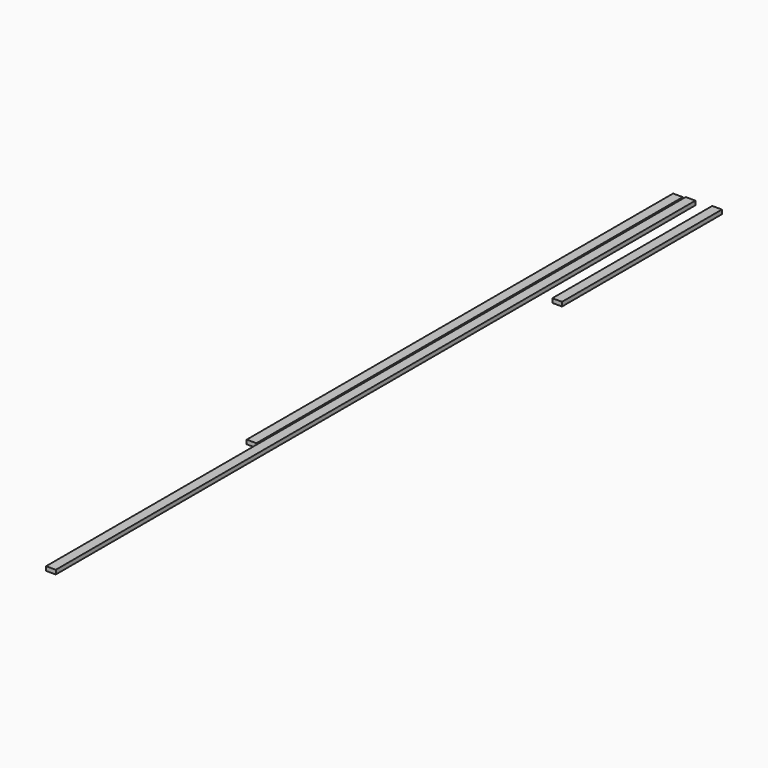
from build123d import *

# Parameters (mm, degrees)
F0_W     = 88.9
F0_H     = 38.1
F1_DEPTH = 4876.8
F2_W     = 88.9
F2_H     = 38.1
F3_DEPTH = 7315.2
F4_R     = 1.5875
F5_DEPTH = 25.4
F6_W     = 88.9
F6_H     = 38.1
F7_DEPTH = 1828.8


with BuildPart() as f1:
    # F0 (on Front) → F1 (new body)
    with BuildSketch(Plane.XZ):
        with Locations((-35.3235648945, 2.8370052017)):
            Rectangle(F0_W, F0_H)
    extrude(amount=F1_DEPTH)

    # F4 (on face) → F5 (cut)
    with BuildSketch(Plane.XY.offset(21.8870052017)):
        with Locations((-16.2735648945, -4851.4)):
            Circle(F4_R)
        with Locations((-54.3735648945, -4851.4)):
            Circle(F4_R)
        with Locations((-54.3735648945, -25.4)):
            Circle(F4_R)
        with Locations((-16.2735648945, -25.4)):
            Circle(F4_R)
    extrude(amount=F5_DEPTH, mode=Mode.SUBTRACT)


with BuildPart() as f3:
    # F2 (on Front) → F3 (new body)
    with BuildSketch(Plane.XZ):
        with Locations((79.9255557358, 11.8567835398)):
            Rectangle(F2_W, F2_H)
    extrude(amount=F3_DEPTH)


with BuildPart() as f7:
    # F6 (on Front) → F7 (new body)
    with BuildSketch(Plane.XZ):
        with Locations((322.7324423572, 19.05)):
            Rectangle(F6_W, F6_H)
    extrude(amount=F7_DEPTH)


solid = Compound([f1.part, f3.part, f7.part])
